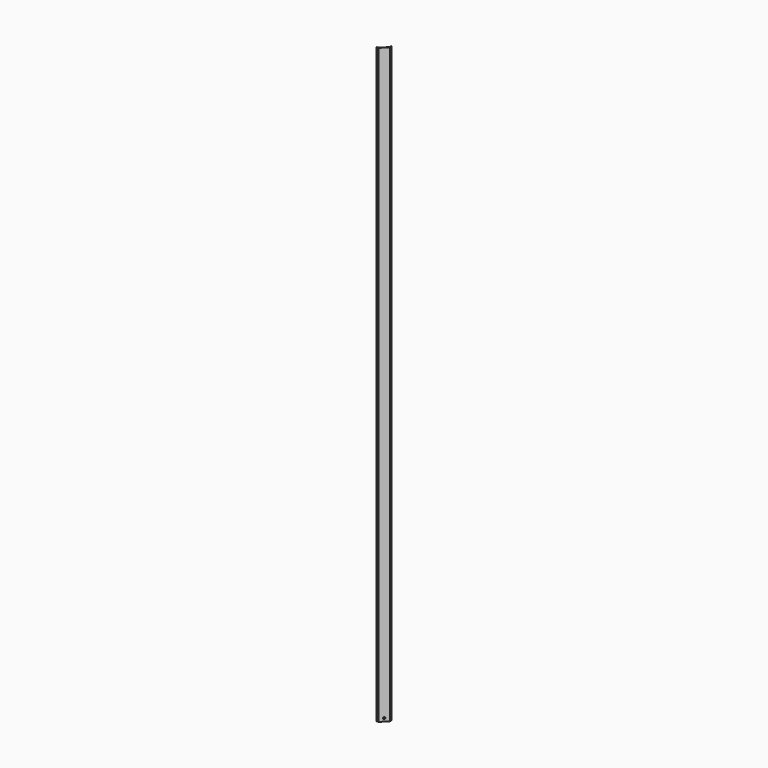
from build123d import *

# Parameters (mm, degrees)
F1_DEPTH = 28
F3_DEPTH = 2653
F5_DEPTH = 28
F6_R     = 2
F7_R     = 1
F8_R     = 4.25
F9_DEPTH = 25


with BuildPart() as f1:
    # F0 (on Top) → F1 (new body)
    with BuildSketch(Plane.XY):
        Polygon((-19.75, -17.750001), (-19.75, -19.75), (-9.25, -19.75), (19.75, 9.25), (19.75, 19.75), (17.750001, 19.75), (17.750001, 10.078427), (-10.078427, -17.750001), align=None)
    extrude(amount=F1_DEPTH)

    # F2 (on face) → F3 (join)
    with BuildSketch(Plane.XY.offset(28)):
        Polygon((-19.75, -19.75), (-9.25, -19.75), (19.75, 9.25), (19.75, 19.75), (11.25, 19.75), (11.25, 24.25), (9.25, 26.25), (9.25, 23.421573), (9.25, 19.75), (9.25, 17.750001), (17.750001, 17.750001), (17.750001, 10.078427), (16.585787, 8.914213), (-8.914213, -16.585787), (-10.078427, -17.750001), (-17.750001, -17.750001), (-17.750001, -9.25), (-19.75, -9.25), (-23.421573, -9.25), (-26.25, -9.25), (-24.25, -11.25), (-19.75, -11.25), align=None)
    extrude(amount=F3_DEPTH)

    # F4 (on face) → F5 (join)
    with BuildSketch(Plane.XY.offset(2681)):
        Polygon((19.75, 9.25), (19.75, 19.75), (17.750001, 19.75), (17.750001, 10.078427), (-10.078427, -17.750001), (-19.75, -17.750001), (-19.75, -19.75), (-9.25, -19.75), align=None)
    extrude(amount=F5_DEPTH)

    # F6
    f6_edges = [f1.edges().sort_by_distance(p)[0] for p in [
        (19.75, 9.25, 1354.5),
        (-9.25, -19.75, 1354.5),
    ]]
    fillet(f6_edges, radius=F6_R)

    # F7
    f7_edges = [f1.edges().sort_by_distance(p)[0] for p in [
        (-19.75, -19.75, 1354.5),
        (19.75, 19.75, 1354.5),
    ]]
    fillet(f7_edges, radius=F7_R)

    # F8 (on face) → F9 (cut)
    with BuildSketch(Plane(origin=(3.835787, -3.835787, 0), x_dir=(-0.707107, -0.707107, 0), z_dir=(-0.707107, 0.707107, 0))):
        with Locations((0, 14)):
            Circle(F8_R)
    extrude(amount=-F9_DEPTH, mode=Mode.SUBTRACT)


solid = f1.part
